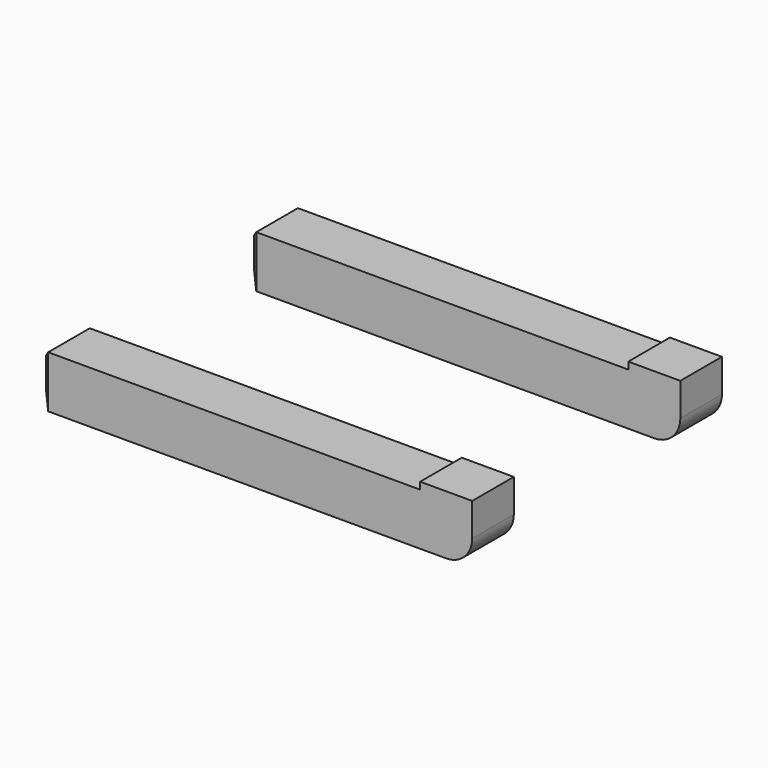
from build123d import *

# Parameters (mm, degrees)
SKETCH002_W   = 1
SKETCH002_H   = 1
FILLET001_R   = 0.5
CHAMFER_SIZE  = 0.2
ARRAY_Y_COUNT = 2
ARRAY_Y_PITCH = 5


with BuildPart() as part:
    # Sweep: sweep along a path in Sketch014
    with BuildLine(Plane.XZ) as sweep_path:
        Line((0, 1.142163), (0, 0.507006))
        Line((0, 0.507006), (-7.850765, 0.507006))
    # Sketch002 → Sweep (sweep)
    with BuildSketch(Plane.XY.offset(1)):
        Rectangle(SKETCH002_W, SKETCH002_H)
    sweep(path=sweep_path.line, transition=Transition.RIGHT)

    # Fillet001
    fillet001_edges = [part.edges().sort_by_distance(p)[0] for p in [
        (0.5, 0, 0.007006),
    ]]
    fillet(fillet001_edges, radius=FILLET001_R)

    # Chamfer
    chamfer_edges = [part.edges().sort_by_distance(p)[0] for p in [
        (-7.850765, 0.5, 0.507006),
        (-7.850765, 0, 0.007006),
        (-7.850765, -0.5, 0.507006),
        (-7.850765, 0, 1.007006),
    ]]
    chamfer(chamfer_edges, length=CHAMFER_SIZE)

    # Array Y: part ×2


with BuildPart() as part_1:
    add(part.part)
    with Locations(*[(0, i * ARRAY_Y_PITCH, 0) for i in range(1, ARRAY_Y_COUNT)]):
        add(part.part)


solid = part_1.part
